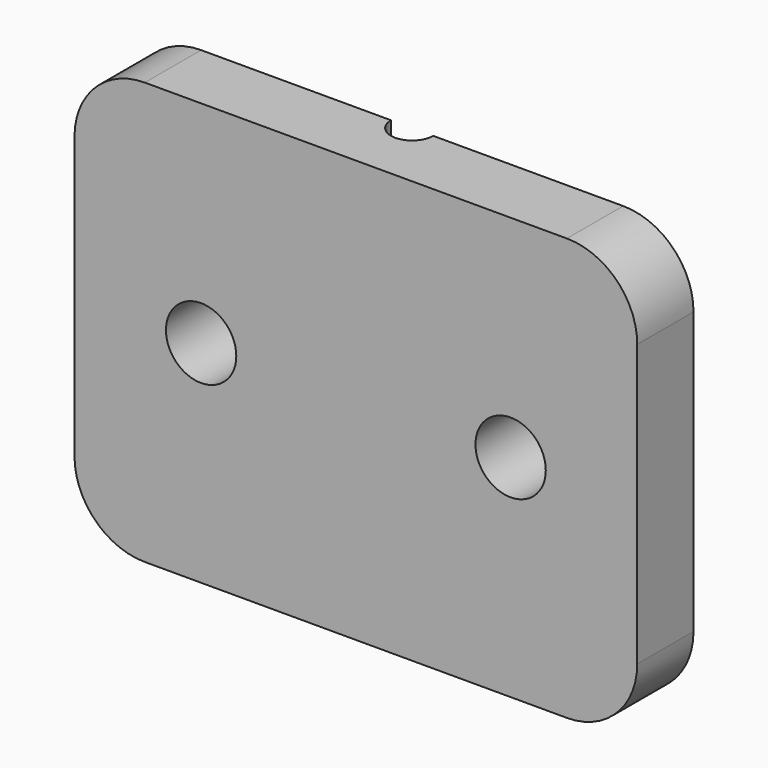
from build123d import *

# Parameters (mm, degrees)
F0_W     = 40
F0_H     = 30
F0_R     = 2.5
F1_DEPTH = 5
F3_DEPTH = 31
F4_R     = 5


with BuildPart() as f1:
    # F0 (on Front) → F1 (new body)
    with BuildSketch(Plane.XZ):
        Rectangle(F0_W, F0_H)
        with Locations((-11, 0)):
            Circle(F0_R, mode=Mode.SUBTRACT)
        with Locations((11, 0)):
            Circle(F0_R, mode=Mode.SUBTRACT)
    extrude(amount=F1_DEPTH)

    # F2 (on face) → F3 (cut)
    with BuildSketch(Plane(origin=(0, 0, -15), x_dir=(1, 0, 0), z_dir=(0, 0, -1))):
        with BuildLine():
            Line((-1.5, 0), (1.5, 0))
            ThreePointArc((1.5, 0), (0, 1.5), (-1.5, 0))
        make_face()
    extrude(amount=-F3_DEPTH, mode=Mode.SUBTRACT)

    # F4
    f4_edges = [f1.edges().sort_by_distance(p)[0] for p in [
        (20, -2.5, -15),
        (-20, -2.5, -15),
        (20, -2.5, 15),
        (-20, -2.5, 15),
    ]]
    fillet(f4_edges, radius=F4_R)


solid = f1.part
